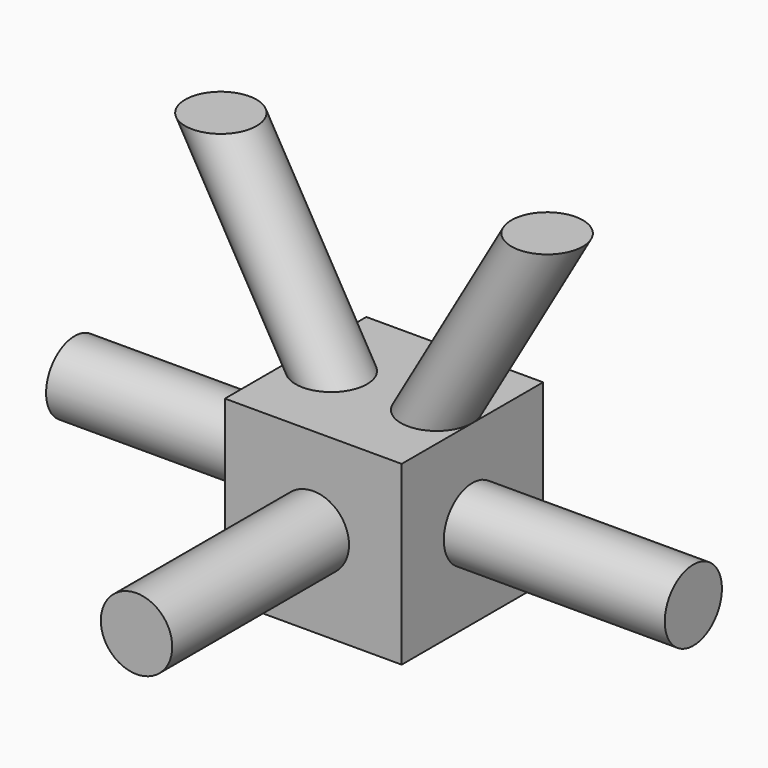
from build123d import *

# Parameters (mm, degrees)
F0_W     = 12
F0_H     = 12
F1_DEPTH = 12
F2_R     = 2.425
F3_DEPTH = 15
F4_R     = 2.425
F5_DEPTH = 15
F6_R     = 2.425
F7_DEPTH = 15
F8_R     = 2.425


with BuildPart() as f1:
    # F0 (on Top) → F1 (new body)
    with BuildSketch(Plane.XY):
        with Locations((-16.311498, 9.258204)):
            Rectangle(F0_W, F0_H)
    extrude(amount=F1_DEPTH)

    # F2 (on face) → F3 (join)
    with BuildSketch(Plane.YZ.offset(-10.311498)):
        with Locations((9.258204, 6)):
            Circle(F2_R)
    extrude(amount=F3_DEPTH)

    # F4 (on face) → F5 (join)
    with BuildSketch(Plane(origin=(-22.311498, 0, 0), x_dir=(0, -1, 0), z_dir=(-1, 0, 0))):
        with Locations((-9.258204, 6)):
            Circle(F4_R)
    extrude(amount=F5_DEPTH)

    # F6 (on face) → F7 (join)
    with BuildSketch(Plane.XZ.offset(-3.258204)):
        with Locations((-16.311498, 6)):
            Circle(F6_R)
    extrude(amount=F7_DEPTH)

    # F10: sweep along a path in F9
    with BuildLine(Plane(origin=(0, 15.258204, 0), x_dir=(-1, 0, 0), z_dir=(0, 1, 0))) as f10_path:
        Line((12.736498, 12), (5.236498, 24.990381))
    # F8 (on face) → F10 (sweep)
    with BuildSketch(Plane.XY.offset(12)):
        with Locations((-12.736498, 9.258204)):
            Circle(F8_R)
    sweep(path=f10_path.line)

    # F11: sweep along a path in F9
    with BuildLine(Plane(origin=(0, 15.258204, 0), x_dir=(-1, 0, 0), z_dir=(0, 1, 0))) as f11_path:
        Line((19.886498, 12), (27.386498, 24.990381))
    # F8 (on face) → F11 (sweep)
    with BuildSketch(Plane.XY.offset(12)):
        with BuildLine():
            ThreePointArc((-22.311498, 9.258204), (-19.886498, 6.833204), (-17.461498, 9.258204))
            ThreePointArc((-17.461498, 9.258204), (-19.886498, 11.683204), (-22.311498, 9.258204))
        make_face()
    sweep(path=f11_path.line)


solid = f1.part
